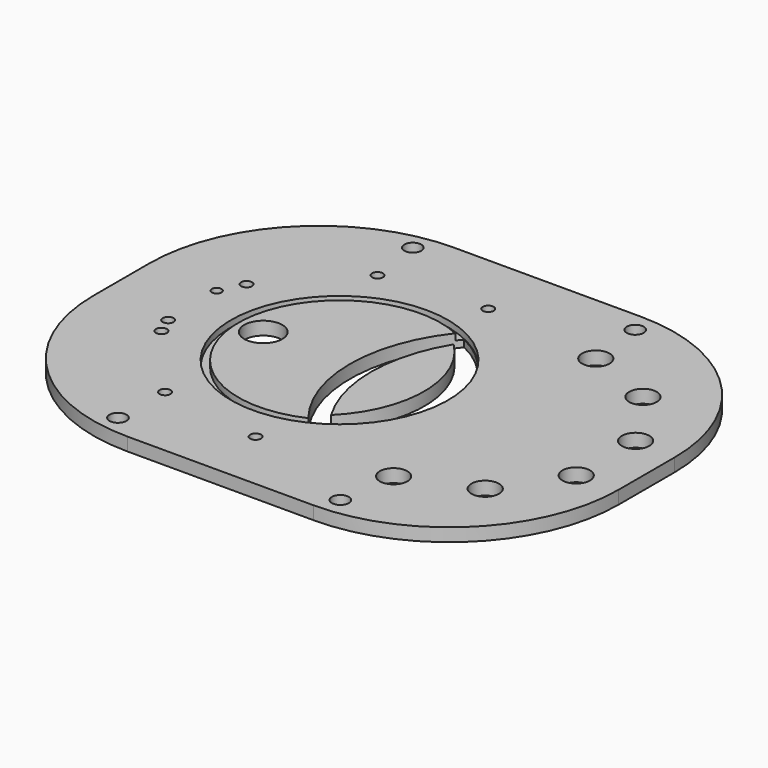
from build123d import *

# Parameters (mm, degrees)
CYLINDER180_R             = 6.5
CYLINDER180_DEPTH         = 10
ARRAY003_COUNT            = 6
ARRAY003_ANGLE            = 170
CYLINDER178_R             = 2.579687
CYLINDER178_DEPTH         = 19.5
ARRAY002_COUNT            = 6
ARRAY002_ANGLE            = 208
ARRAY002_PLACEMENT_ANGLE  = 109
CYLINDER185_R             = 47.75
CYLINDER185_DEPTH         = 3
CYLINDER179_R             = 51.25
CYLINDER179_DEPTH         = 3
CYLINDER177_R             = 2.28
CYLINDER177_DEPTH         = 29
CYLINDER181_R             = 2.58
CYLINDER181_DEPTH         = 29
CYLINDER183_R             = 9
CYLINDER183_DEPTH         = 21
CYLINDER182_R             = 4
CYLINDER182_DEPTH         = 10
CYLINDER184_R             = 4
CYLINDER184_DEPTH         = 10
CYLINDER187_R             = 4
CYLINDER187_DEPTH         = 10
CYLINDER175_R             = 4
CYLINDER175_DEPTH         = 10
CYLINDER186_R             = 51
CYLINDER186_DEPTH         = 20
CYLINDER176_R             = 70.0875
CYLINDER176_DEPTH         = 20
BOX002_W                  = 193
BOX002_H                  = 248
BOX002_DEPTH              = 6.2
FILLET001_R               = 80
CUT024_PLACEMENT_ANGLE    = 180
CYLINDER174_R             = 51
CYLINDER174_DEPTH         = 20
CYLINDER173_R             = 70.0875
CYLINDER173_DEPTH         = 6.2
FUSION003_PLACEMENT_ANGLE = 90


with BuildPart() as array003:
    # Cylinder180 → Cylinder180 (new body)
    with BuildSketch(Plane(origin=(60, 181, 0), x_dir=(1, 0, 0), z_dir=(0, 0, 1))):
        Circle(CYLINDER180_R)
    extrude(amount=CYLINDER180_DEPTH)

    # Array003: Array003 ×6 about axis
    array003_axis = Axis((0, 176, 0), (0, 0, 1))


with BuildPart() as array003_1:
    add(array003.part)
    for i in range(1, ARRAY003_COUNT):
        add(array003.part.rotate(array003_axis, i * ARRAY003_ANGLE / (ARRAY003_COUNT - 1)))


with BuildPart() as array003_2:
    # Array003 placement: moved
    add(array003_1.part.moved(Location((0, -5, 0))))


with BuildPart() as obj1:
    # Cylinder178 → Cylinder178 (new body)
    with BuildSketch(Plane(origin=(36.025, 58.5, -4), x_dir=(1, 0, 0), z_dir=(0, 0, 1))):
        Circle(CYLINDER178_R)
    extrude(amount=CYLINDER178_DEPTH)

    # Array002: obj1 ×6 about axis
    array002_axis = Axis((0, 0, 0), (0, 0, 1))


with BuildPart() as obj1_1:
    add(obj1.part)
    for i in range(1, ARRAY002_COUNT):
        add(obj1.part.rotate(array002_axis, i * ARRAY002_ANGLE / (ARRAY002_COUNT - 1)))


with BuildPart() as obj1_2:
    # Array002 placement: moved
    add(obj1_1.part.moved(Location((0, 102, 0))).rotate(Axis((0, 102, 0), (0, 0, 1)), ARRAY002_PLACEMENT_ANGLE))


with BuildPart() as flange004:
    # Cylinder185 → Cylinder185 (new body)
    with BuildSketch(Plane(origin=(0, 68, 0), x_dir=(1, 0, 0), z_dir=(0, 0, 1))):
        Circle(CYLINDER185_R)
    extrude(amount=CYLINDER185_DEPTH)


with BuildPart() as centeringringgroove001:
    # Cylinder179 → Cylinder179 (new body)
    with BuildSketch(Plane(origin=(0, 68, 0), x_dir=(1, 0, 0), z_dir=(0, 0, 1))):
        Circle(CYLINDER179_R)
    extrude(amount=CYLINDER179_DEPTH)

    # Cut023: cut Flange004
    add(flange004.part, mode=Mode.SUBTRACT)


with BuildPart() as centeringringgroove001_1:
    # Cut023 placement: moved
    add(centeringringgroove001.part.moved(Location((0, 35, 0))))


with BuildPart() as cylinder176:
    # Cylinder177 → Cylinder177 (new body)
    with BuildSketch(Plane(origin=(15, 33, -9), x_dir=(1, 0, 0), z_dir=(0, 0, 1))):
        Circle(CYLINDER177_R)
    extrude(amount=CYLINDER177_DEPTH)


with BuildPart() as cylinder178:
    # Cylinder181 → Cylinder181 (new body)
    with BuildSketch(Plane(origin=(-14.5, 33.7, -7), x_dir=(1, 0, 0), z_dir=(0, 0, 1))):
        Circle(CYLINDER181_R)
    extrude(amount=CYLINDER181_DEPTH)


with BuildPart() as cylinder180:
    # Cylinder183 → Cylinder183 (new body)
    with BuildSketch(Plane(origin=(0, 67, -4), x_dir=(1, 0, 0), z_dir=(0, 0, 1))):
        Circle(CYLINDER183_R)
    extrude(amount=CYLINDER183_DEPTH)


with BuildPart() as cylinder179:
    # Cylinder182 → Cylinder182 (new body)
    with BuildSketch(Plane(origin=(-87, 173, 0), x_dir=(1, 0, 0), z_dir=(0, 0, 1))):
        Circle(CYLINDER182_R)
    extrude(amount=CYLINDER182_DEPTH)


with BuildPart() as cylinder181:
    # Cylinder184 → Cylinder184 (new body)
    with BuildSketch(Plane(origin=(87, 68, 0), x_dir=(1, 0, 0), z_dir=(0, 0, 1))):
        Circle(CYLINDER184_R)
    extrude(amount=CYLINDER184_DEPTH)


with BuildPart() as cylinder187:
    # Cylinder187 → Cylinder187 (new body)
    with BuildSketch(Plane(origin=(-87, 68, 0), x_dir=(1, 0, 0), z_dir=(0, 0, 1))):
        Circle(CYLINDER187_R)
    extrude(amount=CYLINDER187_DEPTH)


with BuildPart() as cylinder175:
    # Cylinder175 → Cylinder175 (new body)
    with BuildSketch(Plane(origin=(87, 173, 0), x_dir=(1, 0, 0), z_dir=(0, 0, 1))):
        Circle(CYLINDER175_R)
    extrude(amount=CYLINDER175_DEPTH)


with BuildPart() as cylinder186:
    # Cylinder186 → Cylinder186 (new body)
    with BuildSketch(Plane(origin=(0, 74, 0), x_dir=(1, 0, 0), z_dir=(0, 0, 1))):
        Circle(CYLINDER186_R)
    extrude(amount=CYLINDER186_DEPTH)


with BuildPart() as fusion004:
    # Cylinder176 → Cylinder176 (new body)
    with BuildSketch(Plane(origin=(0, 149, 0), x_dir=(1, 0, 0), z_dir=(0, 0, 1))):
        Circle(CYLINDER176_R)
    extrude(amount=CYLINDER176_DEPTH)

    # Common002: intersect Cylinder186
    add(cylinder186.part, mode=Mode.INTERSECT)


with BuildPart() as fusion004_1:
    # Common002 placement: moved
    add(fusion004.part.moved(Location((0, 29, 0))))

    # Fusion005: union obj1, CenteringRingGroove001, Cylinder176, Cylinder178, Cylinder180, Cylinder179, Cylinder181, Cylinder187, Cylinder175
    add(obj1_2.part)
    add(centeringringgroove001_1.part)
    add(cylinder176.part)
    add(cylinder178.part)
    add(cylinder180.part)
    add(cylinder179.part)
    add(cylinder181.part)
    add(cylinder187.part)
    add(cylinder175.part)

    # Fusion004: union Array003
    add(array003_2.part)


with BuildPart() as cut024:
    # Box002 → Box002 (new body)
    with BuildSketch(Plane(origin=(-96.5, 0, 0), x_dir=(1, 0, 0), z_dir=(0, 0, 1))):
        with Locations((96.5, 124)):
            Rectangle(BOX002_W, BOX002_H)
    extrude(amount=BOX002_DEPTH)

    # Fillet001
    fillet001_edges = [cut024.edges().sort_by_distance(p)[0] for p in [
        (-96.5, 0, 3.1),
        (-96.5, 248, 3.1),
        (96.5, 0, 3.1),
        (96.5, 248, 3.1),
    ]]
    fillet(fillet001_edges, radius=FILLET001_R)

    # Cut024: cut Fusion004
    add(fusion004_1.part, mode=Mode.SUBTRACT)


with BuildPart() as cut024_1:
    # Cut024 placement: moved
    add(cut024.part.moved(Location((0, 0, 6.2))).rotate(Axis((0, 0, 6.2), (0, 1, 0)), CUT024_PLACEMENT_ANGLE))


with BuildPart() as cylinder174:
    # Cylinder174 → Cylinder174 (new body)
    with BuildSketch(Plane(origin=(0, 63, 0), x_dir=(1, 0, 0), z_dir=(0, 0, 1))):
        Circle(CYLINDER174_R)
    extrude(amount=CYLINDER174_DEPTH)


with BuildPart() as fusion003:
    # Cylinder173 → Cylinder173 (new body)
    with BuildSketch(Plane(origin=(0, 159, 0), x_dir=(1, 0, 0), z_dir=(0, 0, 1))):
        Circle(CYLINDER173_R)
    extrude(amount=CYLINDER173_DEPTH)

    # Common003: intersect Cylinder174
    add(cylinder174.part, mode=Mode.INTERSECT)


with BuildPart() as fusion003_1:
    # Common003 placement: moved
    add(fusion003.part.moved(Location((0, 29, 0))))

    # Fusion003: union Cut024
    add(cut024_1.part)


with BuildPart() as fusion003_2:
    # Fusion003 placement: moved
    add(fusion003_1.part.rotate(Axis((0, 0, 0), (0, 0, -1)), FUSION003_PLACEMENT_ANGLE))


solid = fusion003_2.part
